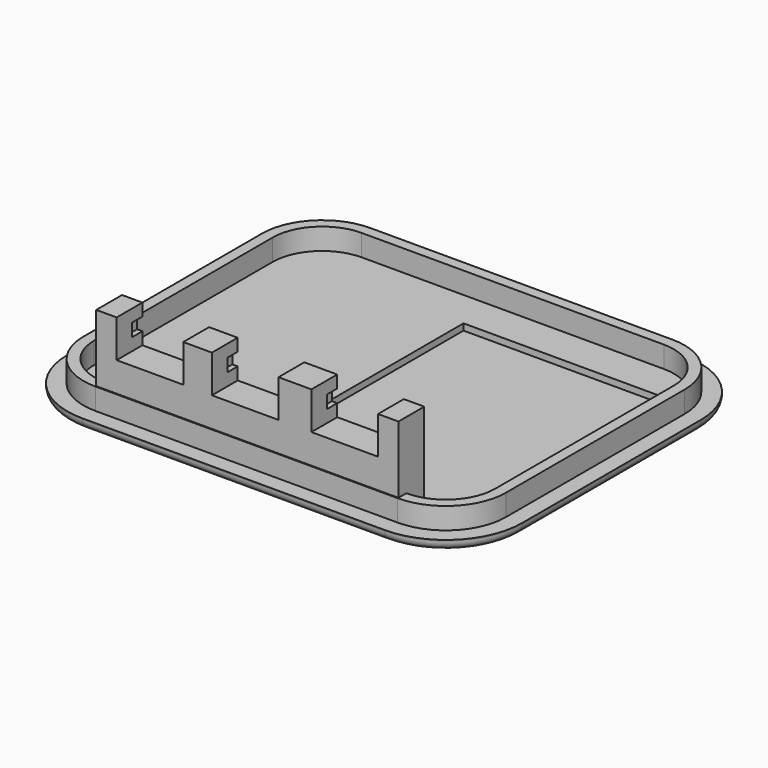
from build123d import *

# Parameters (mm, degrees)
PAD007_DEPTH    = 2
PAD008_DEPTH    = 1
SKETCH021_W     = 20.3
SKETCH021_H     = 23.4
POCKET008_DEPTH = 0.6
PAD009_DEPTH    = 3
SKETCH024_W     = 7.2
SKETCH024_H     = 1.2
POCKET010_DEPTH = 1.2
FILLET002_R     = 0.9


with BuildPart() as part:
    # Sketch019 → Pad007 (new body)
    with BuildSketch(Plane.XY):
        with BuildLine():
            Line((-13.864971, -3.085), (14.264998, -3.085))
            ThreePointArc((14.264998, -3.085), (18.224807, -1.444793), (19.865014, 2.515016))
            Line((19.865014, 2.515016), (19.865014, 23.284984))
            ThreePointArc((19.865014, 23.284984), (18.224807, 27.244793), (14.264998, 28.885))
            Line((14.264998, 28.885), (-13.864971, 28.885))
            ThreePointArc((-13.864971, 28.885), (-17.82478, 27.244793), (-19.464986, 23.284984))
            Line((-19.464986, 23.284984), (-19.464986, 2.515016))
            ThreePointArc((-19.464986, 2.515016), (-17.82478, -1.444793), (-13.864971, -3.085))
        make_face()
        with BuildLine():
            Line((-18.464986, 23.284984), (-18.464986, 2.515016))
            ThreePointArc((-18.464986, 2.515016), (-17.117673, -0.737687), (-13.864971, -2.085))
            Line((-13.864971, -2.085), (14.264998, -2.085))
            ThreePointArc((14.264998, -2.085), (17.5177, -0.737687), (18.865014, 2.515016))
            Line((18.865014, 2.515016), (18.865014, 23.284984))
            ThreePointArc((18.865014, 23.284984), (17.5177, 26.537687), (14.264998, 27.885))
            Line((14.264998, 27.885), (-13.864971, 27.885))
            ThreePointArc((-13.864971, 27.885), (-17.117673, 26.537687), (-18.464986, 23.284984))
        make_face(mode=Mode.SUBTRACT)
    extrude(amount=PAD007_DEPTH)

    # Sketch020 → Pad008 (join)
    with BuildSketch(Plane.XY):
        with BuildLine():
            Line((-20.964986, 23.284984), (-20.964986, 2.515016))
            ThreePointArc((-20.964986, 2.515016), (-18.88544, -2.505454), (-13.864971, -4.585))
            Line((-13.864971, -4.585), (14.264998, -4.585))
            ThreePointArc((14.264998, -4.585), (19.285467, -2.505454), (21.365014, 2.515016))
            Line((21.365014, 2.515016), (21.365014, 23.284984))
            ThreePointArc((21.365014, 23.284984), (19.285467, 28.305454), (14.264998, 30.385))
            Line((14.264998, 30.385), (-13.864971, 30.385))
            ThreePointArc((-13.864971, 30.385), (-18.88544, 28.305454), (-20.964986, 23.284984))
        make_face()
    extrude(amount=-PAD008_DEPTH)

    # Sketch021 → Pocket008 (cut)
    with BuildSketch(Plane.XY):
        with Locations((8.55, 12.7)):
            Rectangle(SKETCH021_W, SKETCH021_H)
    extrude(amount=-POCKET008_DEPTH, mode=Mode.SUBTRACT)

    # Sketch023 → Pad009 (join)
    with BuildSketch(Plane.XZ):
        Polygon((-13.864971, 0), (14.264998, 0), (14.264998, 8.25), (12.364998, 8.25), (12.364998, 4.75), (6.164998, 4.75), (6.164998, 8.25), (3.1, 8.25), (3.1, 4.75), (-3.1, 4.75), (-3.1, 8.25), (-5.764971, 8.25), (-5.764971, 4.75), (-11.964971, 4.75), (-11.964971, 8.25), (-13.864971, 8.25), align=None)
    extrude(amount=PAD009_DEPTH)

    # Sketch024 → Pocket010 (cut)
    with BuildSketch(Plane.XZ):
        with Locations((-8.864971, 6.5)):
            Rectangle(SKETCH024_W, SKETCH024_H)
        with Locations((0, 6.5)):
            Rectangle(SKETCH024_W, SKETCH024_H)
        with Locations((9.264998, 6.5)):
            Rectangle(SKETCH024_W, SKETCH024_H)
    extrude(amount=POCKET010_DEPTH, mode=Mode.SUBTRACT)

    # Fillet002
    fillet002_edges = [part.edges().sort_by_distance(p)[0] for p in [
        (-20.964986, 12.9, -1),
        (-18.88544, 28.305454, -1),
        (0.200014, 30.385, -1),
        (19.285467, 28.305454, -1),
        (21.365014, 12.9, -1),
        (19.285467, -2.505454, -1),
        (0.200014, -4.585, -1),
        (-18.88544, -2.505454, -1),
    ]]
    fillet(fillet002_edges, radius=FILLET002_R)


with BuildPart() as part_1:
    # Body004 placement: moved
    add(part.part.moved(Location((0, 0, 0.9))))


solid = part_1.part
